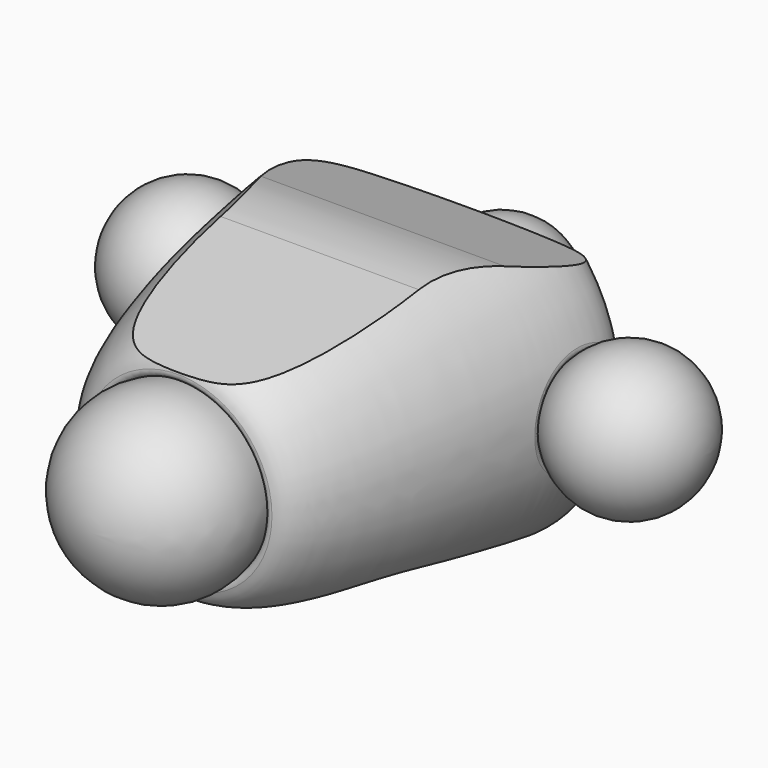
from build123d import *

# Parameters (mm, degrees)
POCKET028_DEPTH      = 147.626796
POCKET028_DEPTH_BACK = 147.626796
POCKET029_DEPTH      = 147.626796
POCKET029_DEPTH_BACK = 147.626796
FILLET082_R          = 6
FILLET083_R          = 5
FILLET084_R          = 6


with BuildPart() as part:
    # Sketch162 → Revolution084 (revolve)
    with BuildSketch(Plane.XY):
        with BuildLine():
            Line((0, 322.018671), (0, 20.371941))
            add(Edge.make_bspline(
                [(0, 322.018671), (53.473918, 322.018671), (104.21536, 317.88647), (156.119411, 306.973022), (140.608635, 195.423989), (125.577646, 106.793844), (90.432373, -0.681763), (55.785058, 20.371941), (0, 20.371941)],
                knots=[0, 0, 0, 0, 0.166667, 0.333333, 0.5, 0.666667, 0.833333, 1, 1, 1, 1], degree=3))
        make_face()
    revolve(axis=Axis((0, 0, 0), (0, 1, 0)))

    # Sketch165 → Pocket028 (cut, two sides)
    with BuildSketch(Plane.YZ) as pocket028_sk:
        with BuildLine():
            Line((0, 76.057571), (164.705364, 107.040153))
            ThreePointArc((230.198439, 103.73248), (197.648298, 109.275045), (164.705364, 107.040153))
            Line((230.198439, 103.73248), (327.121262, 75.140715))
            Line((327.121262, 75.140715), (327.121262, 181.80545))
            Line((327.121262, 181.80545), (0, 181.80545))
            Line((0, 181.80545), (0, 76.057571))
        make_face()
    extrude(amount=-POCKET028_DEPTH, mode=Mode.SUBTRACT)
    extrude(pocket028_sk.sketch, amount=POCKET028_DEPTH_BACK, mode=Mode.SUBTRACT)

    # Sketch166 → Pocket029 (cut, two sides)
    with BuildSketch(Plane.YZ) as pocket029_sk:
        with BuildLine():
            Line((0, -87.995972), (81.156579, -77.887981))
            ThreePointArc((139.258653, -78.991287), (110.247098, -76.360428), (81.156579, -77.887981))
            Line((139.258653, -78.991287), (245.22256, -96.296665))
            ThreePointArc((245.22256, -96.296665), (263.46999, -97.156197), (281.43408, -93.839727))
            Line((281.43408, -93.839727), (341.009521, -75.582008))
            Line((341.009521, -75.582008), (341.009521, -197.003723))
            Line((341.009521, -197.003723), (0, -197.003723))
            Line((0, -197.003723), (0, -87.995972))
        make_face()
    extrude(amount=-POCKET029_DEPTH, mode=Mode.SUBTRACT)
    extrude(pocket029_sk.sketch, amount=POCKET029_DEPTH_BACK, mode=Mode.SUBTRACT)

    # Sketch167 → Groove079 (revolve, cut)
    with BuildSketch(Plane.XY):
        with BuildLine():
            Line((0, 409), (0, 299))
            ThreePointArc((0, 299), (55, 354), (0, 409))
        make_face()
    revolve(axis=Axis((0, 0, 0), (0, 1, 0)), mode=Mode.SUBTRACT)

    # Fillet082
    fillet082_edges = [part.edges().sort_by_distance(p)[0] for p in [
        (-44.297354, 321.400239, 0),
    ]]
    fillet(fillet082_edges, radius=FILLET082_R)

    # Sketch168 → Groove080 (revolve, cut)
    with BuildSketch(Plane.XY):
        with BuildLine():
            Line((0, 75), (0, -75))
            ThreePointArc((0, -75), (75, 0), (0, 75))
        make_face()
    revolve(axis=Axis((0, 0, 0), (0, 1, 0)), mode=Mode.SUBTRACT)

    # Fillet083
    fillet083_edges = [part.edges().sort_by_distance(p)[0] for p in [
        (-73.165063, 16.488588, 0),
    ]]
    fillet(fillet083_edges, radius=FILLET083_R)

    # Sketch169 → Groove081 (revolve, cut)
    with BuildSketch(Plane.XY):
        with BuildLine():
            Line((124, 257), (244, 257))
            ThreePointArc((244, 257), (184, 317), (124, 257))
        make_face()
        with BuildLine():
            Line((-244, 257), (-124, 257))
            ThreePointArc((-124, 257), (-184, 317), (-244, 257))
        make_face()
    revolve(axis=Axis((124, 257, 0), (1, 0, 0)), mode=Mode.SUBTRACT)

    # Fillet084
    fillet084_edges = [part.edges().sort_by_distance(p)[0] for p in [
        (141.270434, 257.078193, -42.120993),
        (141.270434, 257.078193, 42.120993),
        (-142.772349, 213.565694, 3.706998),
        (-141.090705, 298.773575, -3.709562),
    ]]
    fillet(fillet084_edges, radius=FILLET084_R)

    # Sketch167 → Revolution085 (revolve)
    with BuildSketch(Plane.XY):
        with BuildLine():
            Line((0, 409), (0, 299))
            ThreePointArc((0, 299), (55, 354), (0, 409))
        make_face()
    revolve(axis=Axis((0, 0, 0), (0, 1, 0)))

    # Sketch168 → Revolution086 (revolve)
    with BuildSketch(Plane.XY):
        with BuildLine():
            Line((0, 75), (0, -75))
            ThreePointArc((0, -75), (75, 0), (0, 75))
        make_face()
    revolve(axis=Axis((0, 0, 0), (0, 1, 0)))

    # Sketch169 → Revolution087 (revolve)
    with BuildSketch(Plane.XY):
        with BuildLine():
            Line((124, 257), (244, 257))
            ThreePointArc((244, 257), (184, 317), (124, 257))
        make_face()
        with BuildLine():
            Line((-244, 257), (-124, 257))
            ThreePointArc((-124, 257), (-184, 317), (-244, 257))
        make_face()
    revolve(axis=Axis((-244, 257, 0), (1, 0, 0)))


with BuildPart() as part_1:
    # Body050 placement: moved
    add(part.part.moved(Location((0, 1197.018312, 0.388141))))


solid = part_1.part
